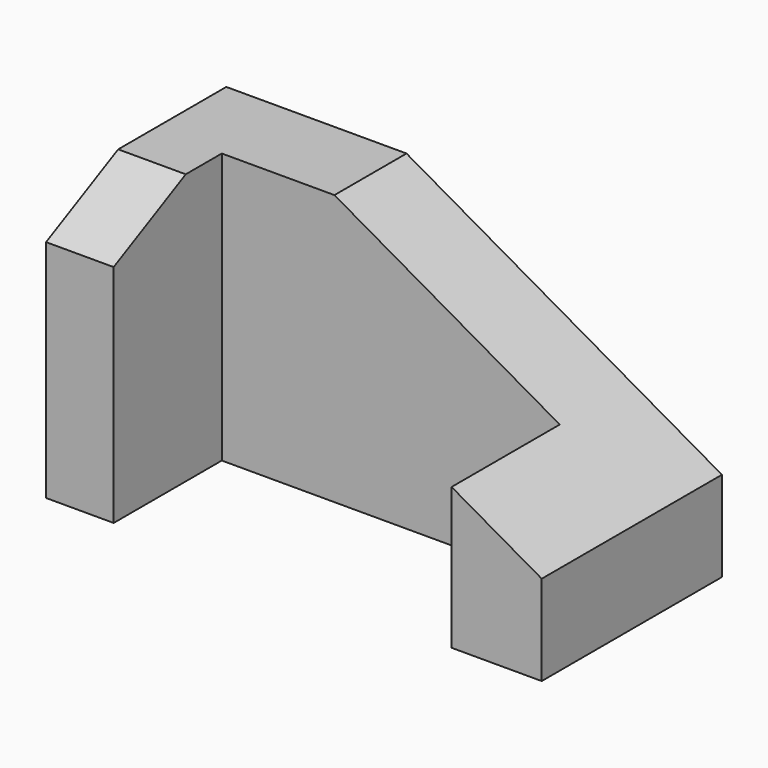
from build123d import *

# Parameters (mm, degrees)
F2_W     = 110
F2_H     = 50
F3_DEPTH = 60
F4_W     = 75
F4_H     = 30
F5_DEPTH = 60
F7_DEPTH = 50
F9_DEPTH = 15


with BuildPart() as f3:
    # F2 (on Top) → F3 (new body)
    with BuildSketch(Plane.XY):
        Rectangle(F2_W, F2_H)
    extrude(amount=F3_DEPTH)

    # F4 (on face) → F5 (cut)
    with BuildSketch(Plane.XY.offset(60)):
        with Locations((-2.5, -10)):
            Rectangle(F4_W, F4_H)
    extrude(amount=-F5_DEPTH, mode=Mode.SUBTRACT)

    # F6 (on face) → F7 (cut)
    with BuildSketch(Plane(origin=(0, 25, 0), x_dir=(-1, 0, 0), z_dir=(0, 1, 0))):
        Polygon((15, 60), (-55, 60), (-55, 20), align=None)
    extrude(amount=-F7_DEPTH, mode=Mode.SUBTRACT)

    # F8 (on face) → F9 (cut)
    with BuildSketch(Plane.YZ.offset(-40)):
        Polygon((-5, 60), (-25, 60), (-25, 50), align=None)
    extrude(amount=-F9_DEPTH, mode=Mode.SUBTRACT)


solid = f3.part
